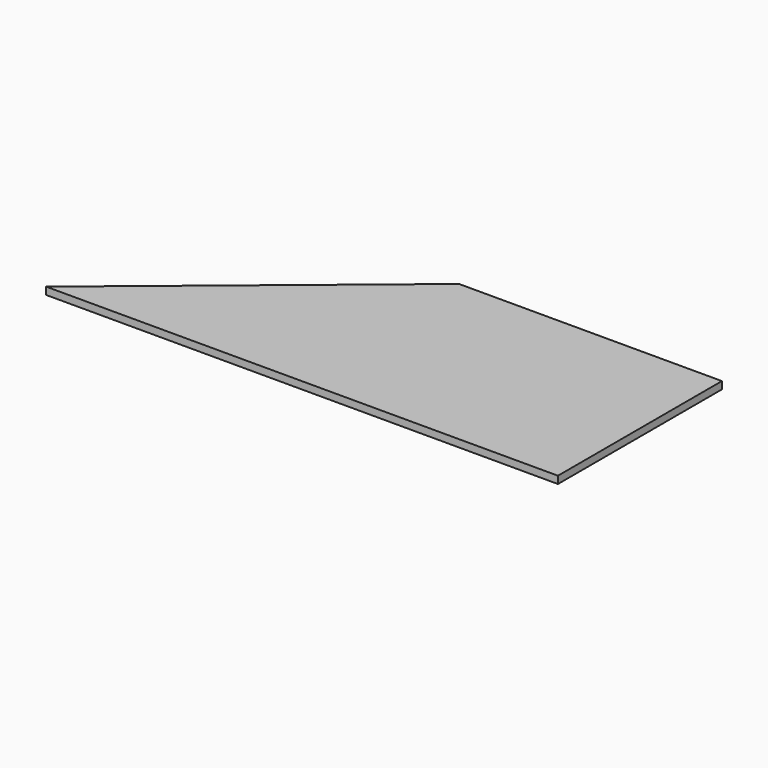
from build123d import *

# Parameters (mm, degrees)
PAD_DEPTH = 3.18


with BuildPart() as part:
    # Sketch → Pad (new body)
    with BuildSketch(Plane.XY):
        Polygon((0, 0), (222, 0), (222, 88.9), (108, 88.9), align=None)
    extrude(amount=PAD_DEPTH)


solid = part.part
